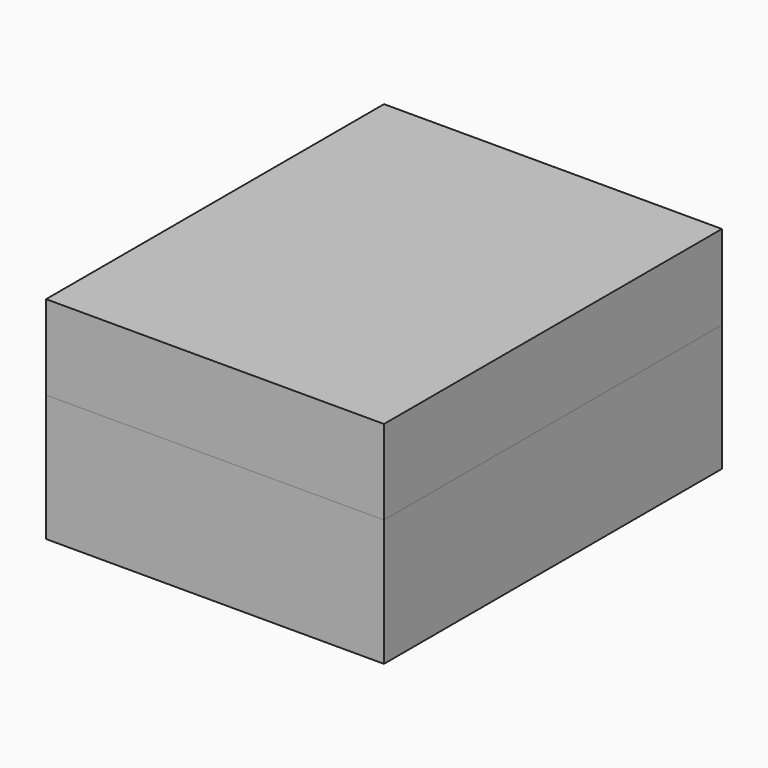
from build123d import *

# Parameters (mm, degrees)
F1_DEPTH  = 63.5
F1_FACE_W = 101.6
F1_FACE_H = 127
F2_DEPTH  = 12.7


with BuildPart() as f1:
    # F0 (on Front) → F1 (new body, symmetric)
    with BuildSketch(Plane.XZ):
        Polygon((53.321987, -25.4), (53.321987, 25.4), (40.621987, 25.4), (-48.278013, 25.4), (-48.278013, -25.4), align=None)
    extrude(amount=F1_DEPTH, both=True)


with BuildPart() as f2:
    # F1_face (on face) → F2 (new body, symmetric)
    with BuildSketch(Plane(origin=(2.521987, 0, 25.4), x_dir=(1, 0, 0), z_dir=(0, 0, 1))):
        Rectangle(F1_FACE_W, F1_FACE_H)
    extrude(amount=F2_DEPTH, both=True)


solid = Compound([f1.part, f2.part])
